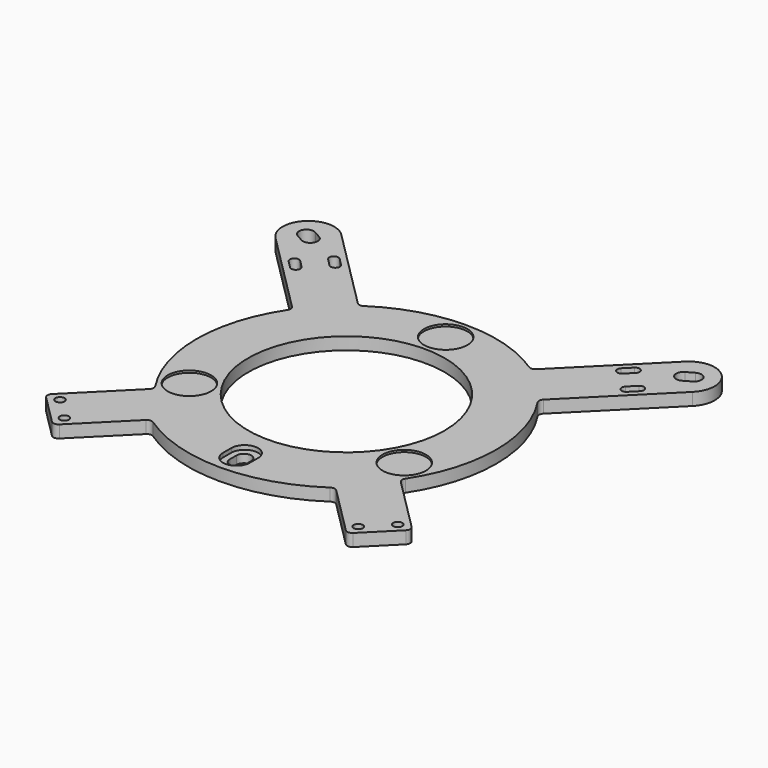
from build123d import *

# Parameters (mm, degrees)
SKETCH_R        = 47.5
PAD021_DEPTH    = 6
SKETCH017_R     = 2.2
POCKET013_DEPTH = 6.001
POCKET014_DEPTH = 2
FILLET_R        = 2.5
SKETCH024_R     = 10.5
POCKET036_DEPTH = 1


with BuildPart() as part:
    # Sketch → Pad021 (new body)
    with BuildSketch(Plane.XY):
        with BuildLine():
            Line((-59.336359, -41.65869), (-88.741901, -71.064232))
            Line((-88.741901, -71.064232), (-71.064232, -88.741901))
            Line((-71.064232, -88.741901), (-44.527821, -62.205491))
            ThreePointArc((-44.527821, -62.205491), (0, -76.5), (44.527821, -62.205491))
            Line((44.527821, -62.205491), (71.064232, -88.741901))
            Line((71.064232, -88.741901), (88.741901, -71.064232))
            Line((88.741901, -71.064232), (59.336359, -41.65869))
            ThreePointArc((59.336359, -41.65869), (72.5, 0), (59.336359, 41.65869))
            Line((100.838835, 83.161165), (59.336359, 41.65869))
            ThreePointArc((100.838835, 83.161165), (100.838835, 100.838835), (83.161165, 100.838835))
            Line((41.65869, 59.336359), (83.161165, 100.838835))
            ThreePointArc((41.65869, 59.336359), (0, 72.5), (-41.65869, 59.336359))
            Line((-83.161165, 100.838835), (-41.65869, 59.336359))
            ThreePointArc((-83.161165, 100.838835), (-100.838835, 100.838835), (-100.838835, 83.161165))
            Line((-59.336359, 41.65869), (-100.838835, 83.161165))
            ThreePointArc((-59.336359, 41.65869), (-72.5, 0), (-59.336359, -41.65869))
        make_face()
        Circle(SKETCH_R, mode=Mode.SUBTRACT)
        with BuildLine():
            ThreePointArc((-91.951086, 96.117962), (-96.862634, 94.777552), (-95.522224, 89.866004))
            Line((-95.522224, 89.866004), (-92.048914, 87.882038))
            ThreePointArc((-92.048914, 87.882038), (-87.137366, 89.222448), (-88.477776, 94.133996))
            Line((-91.951086, 96.117962), (-88.477776, 94.133996))
        make_face(mode=Mode.SUBTRACT)
        with BuildLine():
            ThreePointArc((95.522224, 89.866004), (96.862634, 94.777552), (91.951086, 96.117962))
            Line((91.951086, 96.117962), (88.477776, 94.133996))
            ThreePointArc((88.477776, 94.133996), (87.137366, 89.222448), (92.048914, 87.882038))
            Line((95.522224, 89.866004), (92.048914, 87.882038))
        make_face(mode=Mode.SUBTRACT)
        with BuildLine():
            ThreePointArc((-3.6, -66), (0, -69.6), (3.6, -66))
            Line((3.6, -66), (3.6, -62))
            ThreePointArc((3.6, -62), (0, -58.4), (-3.6, -62))
            Line((-3.6, -66), (-3.6, -62))
        make_face(mode=Mode.SUBTRACT)
    extrude(amount=PAD021_DEPTH)

    # Sketch017 (on DatumPlane) → Pocket013 (cut, through all)
    with BuildSketch(Plane.XY.offset(6)):
        with Locations((81.670833, -71.064232)):
            Circle(SKETCH017_R)
        with Locations((71.064232, -81.670833)):
            Circle(SKETCH017_R)
        with Locations((-71.064232, -81.670833)):
            Circle(SKETCH017_R)
        with Locations((-81.670833, -71.064232)):
            Circle(SKETCH017_R)
        with BuildLine():
            ThreePointArc((74.387633, 81.882965), (74.387633, 84.994235), (71.276364, 84.994235))
            Line((71.276364, 84.994235), (67.74083, 81.458701))
            ThreePointArc((67.74083, 81.458701), (67.74083, 78.347431), (70.852099, 78.347431))
            Line((74.387633, 81.882965), (70.852099, 78.347431))
        make_face()
        with BuildLine():
            ThreePointArc((84.994235, 71.276364), (84.994235, 74.387633), (81.882965, 74.387633))
            Line((81.882965, 74.387633), (78.347431, 70.852099))
            ThreePointArc((78.347431, 70.852099), (78.347431, 67.74083), (81.458701, 67.74083))
            Line((84.994235, 71.276364), (81.458701, 67.74083))
        make_face()
        with BuildLine():
            ThreePointArc((-71.276364, 84.994235), (-74.387633, 84.994235), (-74.387633, 81.882965))
            Line((-74.387633, 81.882965), (-70.852099, 78.347431))
            ThreePointArc((-70.852099, 78.347431), (-67.74083, 78.347431), (-67.74083, 81.458701))
            Line((-71.276364, 84.994235), (-67.74083, 81.458701))
        make_face()
        with BuildLine():
            ThreePointArc((-81.882965, 74.387633), (-84.994235, 74.387633), (-84.994235, 71.276364))
            Line((-84.994235, 71.276364), (-81.458701, 67.74083))
            ThreePointArc((-81.458701, 67.74083), (-78.347431, 67.74083), (-78.347431, 70.852099))
            Line((-81.882965, 74.387633), (-78.347431, 70.852099))
        make_face()
    extrude(amount=-POCKET013_DEPTH, mode=Mode.SUBTRACT)

    # Sketch012 (on DatumPlane) → Pocket014 (cut)
    with BuildSketch(Plane.XY.offset(6)):
        with BuildLine():
            ThreePointArc((6.5, -61.5), (0, -55), (-6.5, -61.5))
            Line((-6.5, -61.5), (-6.5, -66.5))
            ThreePointArc((-6.5, -66.5), (0, -73), (6.5, -66.5))
            Line((6.5, -61.5), (6.5, -66.5))
        make_face()
    extrude(amount=-POCKET014_DEPTH, mode=Mode.SUBTRACT)

    # Fillet
    fillet_edges = [part.edges().sort_by_distance(p)[0] for p in [
        (-59.336359, 41.65869, 3),
        (-59.336359, -41.65869, 3),
        (-88.741901, -71.064232, 3),
        (-84.994235, 71.276364, 3),
        (-74.387633, 81.882965, 3),
        (-71.276364, 84.994235, 3),
        (-81.882965, 74.387633, 3),
        (-44.527821, -62.205491, 3),
        (44.527821, -62.205491, 3),
        (59.336359, -41.65869, 3),
        (59.336359, 41.65869, 3),
        (41.65869, 59.336359, 3),
        (-41.65869, 59.336359, 3),
        (-71.064232, -88.741901, 3),
        (71.064232, -88.741901, 3),
        (88.741901, -71.064232, 3),
    ]]
    fillet(fillet_edges, radius=FILLET_R)

    # Sketch024 (on DatumPlane) → Pocket036 (cut)
    with BuildSketch(Plane.XY.offset(6)):
        with Locations((0, 60)):
            Circle(SKETCH024_R)
        with Locations((-51.961524, -30)):
            Circle(SKETCH024_R)
        with Locations((51.961524, -30)):
            Circle(SKETCH024_R)
    extrude(amount=-POCKET036_DEPTH, mode=Mode.SUBTRACT)


with BuildPart() as part_1:
    # Body placement: moved
    add(part.part.moved(Location((0, 0, -37))))


solid = part_1.part
